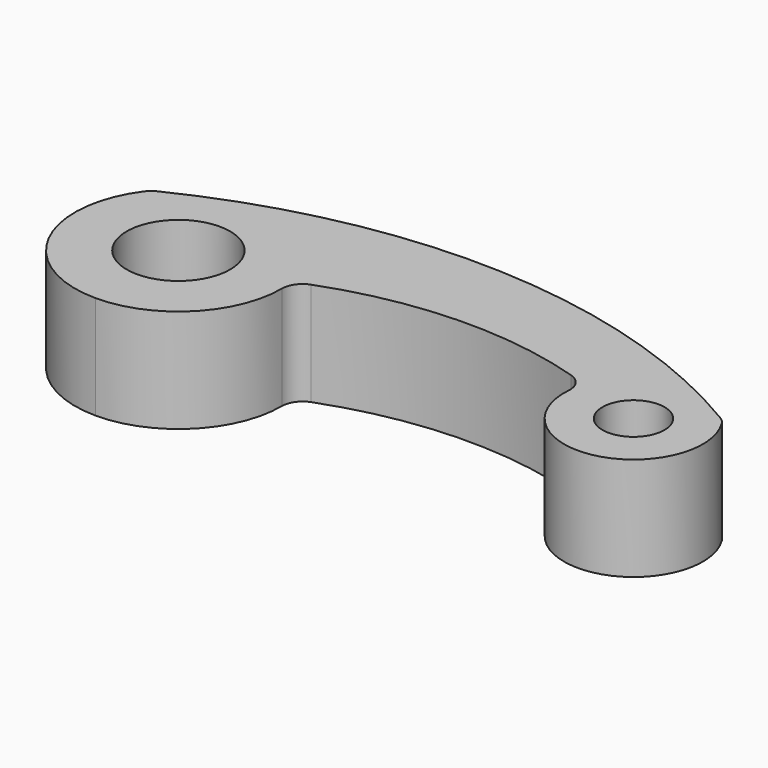
from build123d import *

# Parameters (mm, degrees)
F0_R     = 12.5
F0_R_2   = 7.5
F1_DEPTH = 25


with BuildPart() as f1:
    # F0 (on Top) → F1 (new body)
    with BuildSketch(Plane.XY):
        with BuildLine():
            ThreePointArc((-75.207108, 50.513876), (-76.212982, 49.861177), (-77.034532, 48.987763))
            ThreePointArc((-77.034532, 48.987763), (-79.21274, 22.88653), (-56.901976, 9.16615))
            ThreePointArc((-56.901976, 9.16615), (-39.216747, 16.496044), (-31.901986, 34.187538))
            ThreePointArc((-31.901986, 34.187538), (-31.012413, 37.038638), (-28.656223, 38.873979))
            ThreePointArc((-28.656223, 38.873979), (1.960124, 44.874089), (32.869195, 40.632465))
            ThreePointArc((32.869195, 40.632465), (35.523586, 38.663847), (36.370146, 35.469386))
            ThreePointArc((36.370146, 35.469386), (57.04258, 17.857846), (67.38122, 42.970162))
            ThreePointArc((67.38122, 42.970162), (66.636188, 43.906127), (65.690151, 44.638329))
            ThreePointArc((65.690151, 44.638329), (-4.012921, 65.454779), (-75.207108, 50.513876))
        make_face()
        with Locations((-56.901976, 34.16615)):
            Circle(F0_R, mode=Mode.SUBTRACT)
        with Locations((53.098024, 34.16615)):
            Circle(F0_R_2, mode=Mode.SUBTRACT)
    extrude(amount=F1_DEPTH)


solid = f1.part
